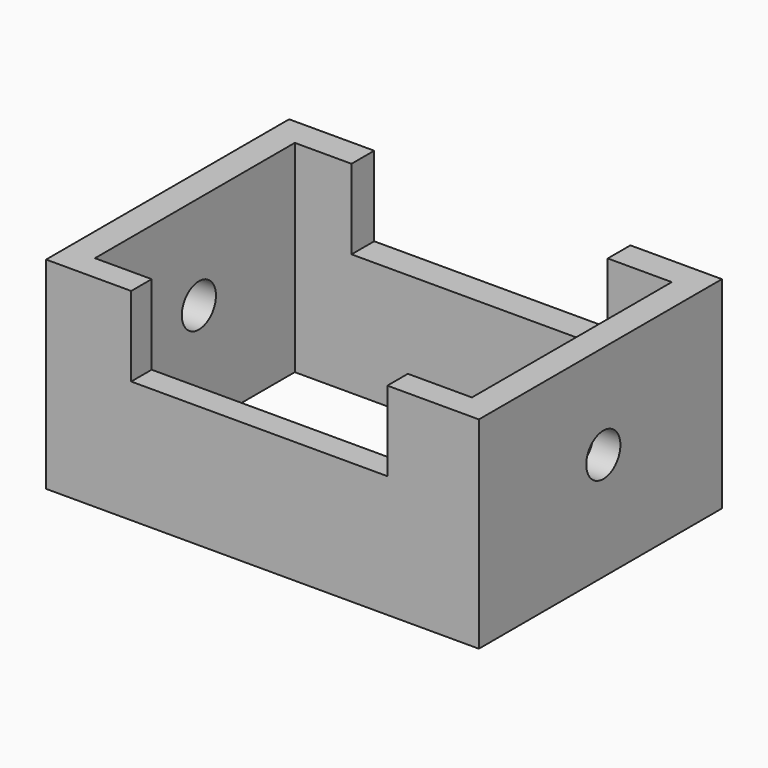
from build123d import *

# Parameters (mm, degrees)
F0_W     = 136.1321210861
F0_H     = 95.5515094101
F0_W_2   = 118.5759752989
F0_H_2   = 78.5709768534
F1_DEPTH = 63.5
F2_W     = 80.5856101215
F2_H     = 25.0779332817
F3_DEPTH = 141.986
F4_R     = 6.7127269872
F5_DEPTH = 186.69


with BuildPart() as f1:
    # F0 (on Top) → F1 (new body)
    with BuildSketch(Plane.XY):
        with Locations((0.8634179831, 2.4463478476)):
            Rectangle(F0_W, F0_H)
        with Locations((1.007322222, 2.0146407187)):
            Rectangle(F0_W_2, F0_H_2, mode=Mode.SUBTRACT)
    extrude(amount=F1_DEPTH)

    # F2 (on face) → F3 (cut)
    with BuildSketch(Plane.XZ.offset(45.3294068575)):
        with Locations((-0.1439023763, 50.9610333592)):
            Rectangle(F2_W, F2_H)
    extrude(amount=-F3_DEPTH, mode=Mode.SUBTRACT)

    # F4 (on face) → F5 (cut)
    with BuildSketch(Plane(origin=(-67.20264256, 0, 0), x_dir=(0, -1, 0), z_dir=(-1, 0, 0))):
        with Locations((-3.597572213, 33.8171757758)):
            Circle(F4_R)
    extrude(amount=-F5_DEPTH, mode=Mode.SUBTRACT)


solid = f1.part
